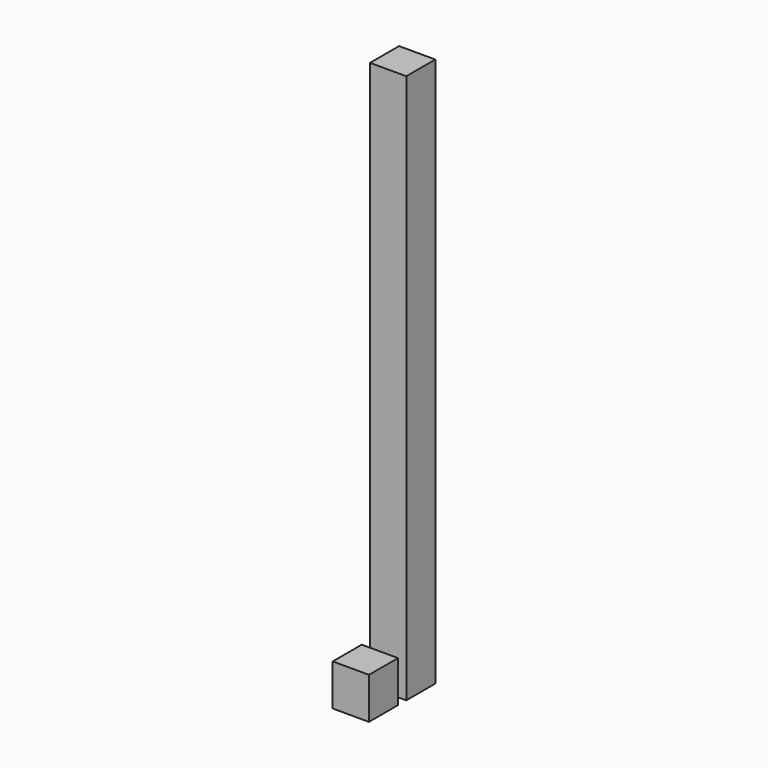
from build123d import *

# Parameters (mm, degrees)
F1_W     = 35
F1_H     = 35
F2_DEPTH = 40
F3_DEPTH = 530
F6_D     = 8.5
F6_DEPTH = 16.5
F6_TIP   = 2.5536576309


with BuildPart() as f2:
    # F1 (on Top) → F2 (new body)
    with BuildSketch(Plane.XY):
        with Locations((17.5, -17.5)):
            Rectangle(F1_W, F1_H)
    extrude(amount=F2_DEPTH)

    # F6
    with Locations(Plane(origin=(0, 0, 0), x_dir=(1, 0, 0), z_dir=(0, 0, -1))):
        with Locations((17.5, 17.5)):
            Hole(F6_D / 2, depth=F6_DEPTH)
            with Locations((0, 0, -(F6_DEPTH + F6_TIP / 2))):  # 118° drill point
                Cone(0, F6_D / 2, F6_TIP, mode=Mode.SUBTRACT)


with BuildPart() as f3:
    # F1 (on Top) → F3 (new body)
    with BuildSketch(Plane.XY):
        with Locations((17.5, -17.5)):
            Rectangle(F1_W, F1_H)
    extrude(amount=F3_DEPTH)


with BuildPart() as f3_1:
    # F4: moved
    add(f3.part.moved(Location((0, 45, 0))))


solid = Compound([f2.part, f3_1.part])
